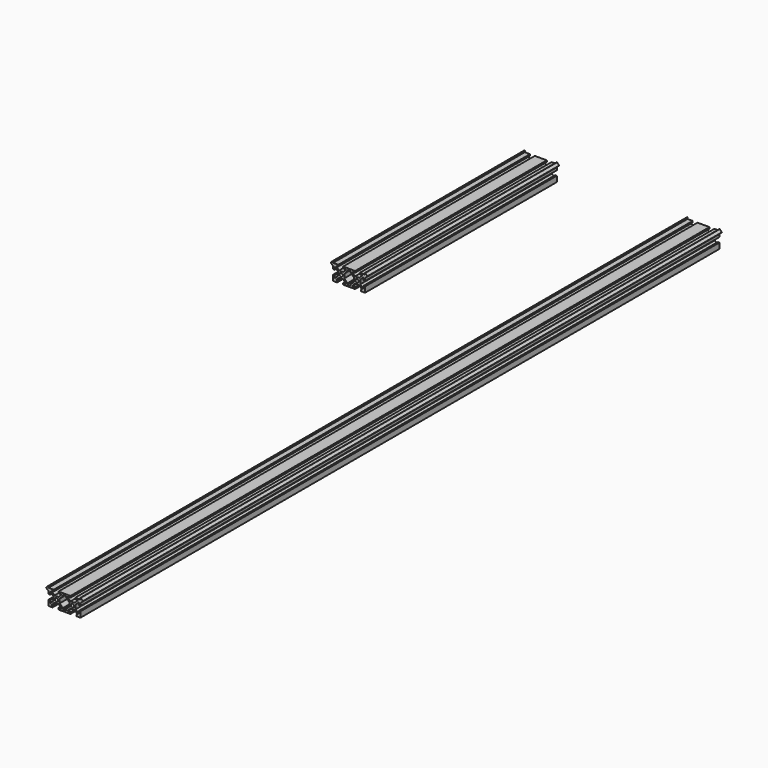
from build123d import *

# Parameters (mm, degrees)
F0_R     = 2.1
F1_DEPTH = 300
F2_R     = 2.1
F3_DEPTH = 1000


with BuildPart() as f1:
    # F0 (on Front) → F1 (new body)
    with BuildSketch(Plane.XZ):
        Polygon((-18, 10), (-20, 10), (-20, 12), (-20.365542, 12), (-23.05, 9.315542), (-20.365542, 6.631084), (-20, 6.631084), (-20, 6), (-20, 3), (-18, 3), (-18, 6), (-17.414214, 6), (-14, 2.585786), (-14, -2.585786), (-17.414214, -6), (-18, -6), (-18, -3), (-20, -3), (-20, -6), (-20, -8), (-20, -10), (-15, -10), (-15, -8), (-16, -8), (-16, -7.414214), (-12.585786, -4), (-7.414214, -4), (-4, -7.414214), (-4, -8), (-7.5, -8), (-7.5, -10), (-4, -10), (-2, -10), (0, -10), (0, -8), (-2, -8), (-2, -6.585786), (-2.585786, -6), (-6, -2.585786), (-6, 2.585786), (-2.585786, 6), (-2, 6.585786), (-2, 8), (0, 8), (0, 10), (-2, 10), (-4, 10), (-7.5, 10), (-7.5, 8), (-4, 8), (-4, 7.414214), (-7.414214, 4), (-12.585786, 4), (-16, 7.414214), (-16, 8), (-13.5, 8), (-13.5, 10), (-16, 10), align=None)
        with Locations((-10, 0)):
            Circle(F0_R, mode=Mode.SUBTRACT)
        Polygon((2, 10), (0, 10), (0, 8), (2, 8), (2, 6.585786), (2.585786, 6), (6, 2.585786), (6, -2.585786), (2.585786, -6), (2, -6.585786), (2, -8), (0, -8), (0, -10), (2, -10), (4, -10), (7.5, -10), (7.5, -8), (4, -8), (4, -7.414214), (7.414214, -4), (12.585786, -4), (16, -7.414214), (16, -8), (15, -8), (15, -10), (20, -10), (20, -8), (20, -6), (20, -3), (18, -3), (18, -6), (17.414214, -6), (14, -2.585786), (14, 2.585786), (17.414214, 6), (18, 6), (18, 3), (20, 3), (20, 6), (20, 6.631084), (20.365542, 6.631084), (23.05, 9.315542), (20.365542, 12), (20, 12), (20, 10), (18, 10), (16, 10), (13.5, 10), (13.5, 8), (16, 8), (16, 7.414214), (12.585786, 4), (7.414214, 4), (4, 7.414214), (4, 8), (7.5, 8), (7.5, 10), (4, 10), align=None)
        with Locations((10, 0)):
            Circle(F0_R, mode=Mode.SUBTRACT)
    extrude(amount=F1_DEPTH)


with BuildPart() as f3:
    # F2 (on Front) → F3 (new body)
    with BuildSketch(Plane.XZ):
        Polygon((185.70004, 2.658694), (183.70004, 2.658694), (183.70004, 4.658694), (183.334498, 4.658694), (180.65004, 1.974236), (183.334498, -0.710222), (183.70004, -0.710222), (183.70004, -1.341306), (183.70004, -4.341306), (185.70004, -4.341306), (185.70004, -1.341306), (186.285826, -1.341306), (189.70004, -4.75552), (189.70004, -9.927093), (186.285826, -13.341306), (185.70004, -13.341306), (185.70004, -10.341306), (183.70004, -10.341306), (183.70004, -13.341306), (183.70004, -15.341306), (183.70004, -17.341306), (188.70004, -17.341306), (188.70004, -15.341306), (187.70004, -15.341306), (187.70004, -14.75552), (191.114254, -11.341306), (196.285826, -11.341306), (199.70004, -14.75552), (199.70004, -15.341306), (196.20004, -15.341306), (196.20004, -17.341306), (199.70004, -17.341306), (201.70004, -17.341306), (203.70004, -17.341306), (203.70004, -15.341306), (201.70004, -15.341306), (201.70004, -13.927093), (201.114254, -13.341306), (197.70004, -9.927093), (197.70004, -4.75552), (201.114254, -1.341306), (201.70004, -0.75552), (201.70004, 0.658694), (203.70004, 0.658694), (203.70004, 2.658694), (201.70004, 2.658694), (199.70004, 2.658694), (196.20004, 2.658694), (196.20004, 0.658694), (199.70004, 0.658694), (199.70004, 0.072907), (196.285826, -3.341306), (191.114254, -3.341306), (187.70004, 0.072907), (187.70004, 0.658694), (190.20004, 0.658694), (190.20004, 2.658694), (187.70004, 2.658694), align=None)
        with Locations((193.70004, -7.341306)):
            Circle(F2_R, mode=Mode.SUBTRACT)
        Polygon((205.70004, 2.658694), (203.70004, 2.658694), (203.70004, 0.658694), (205.70004, 0.658694), (205.70004, -0.75552), (206.285826, -1.341306), (209.70004, -4.75552), (209.70004, -9.927093), (206.285826, -13.341306), (205.70004, -13.927093), (205.70004, -15.341306), (203.70004, -15.341306), (203.70004, -17.341306), (205.70004, -17.341306), (207.70004, -17.341306), (211.20004, -17.341306), (211.20004, -15.341306), (207.70004, -15.341306), (207.70004, -14.75552), (211.114254, -11.341306), (216.285826, -11.341306), (219.70004, -14.75552), (219.70004, -15.341306), (218.70004, -15.341306), (218.70004, -17.341306), (223.70004, -17.341306), (223.70004, -15.341306), (223.70004, -13.341306), (223.70004, -10.341306), (221.70004, -10.341306), (221.70004, -13.341306), (221.114254, -13.341306), (217.70004, -9.927093), (217.70004, -4.75552), (221.114254, -1.341306), (221.70004, -1.341306), (221.70004, -4.341306), (223.70004, -4.341306), (223.70004, -1.341306), (223.70004, -0.710222), (224.065582, -0.710222), (226.75004, 1.974236), (224.065582, 4.658694), (223.70004, 4.658694), (223.70004, 2.658694), (221.70004, 2.658694), (219.70004, 2.658694), (217.20004, 2.658694), (217.20004, 0.658694), (219.70004, 0.658694), (219.70004, 0.072907), (216.285826, -3.341306), (211.114254, -3.341306), (207.70004, 0.072907), (207.70004, 0.658694), (211.20004, 0.658694), (211.20004, 2.658694), (207.70004, 2.658694), align=None)
        with Locations((213.70004, -7.341306)):
            Circle(F2_R, mode=Mode.SUBTRACT)
    extrude(amount=F3_DEPTH)


solid = Compound([f1.part, f3.part])
